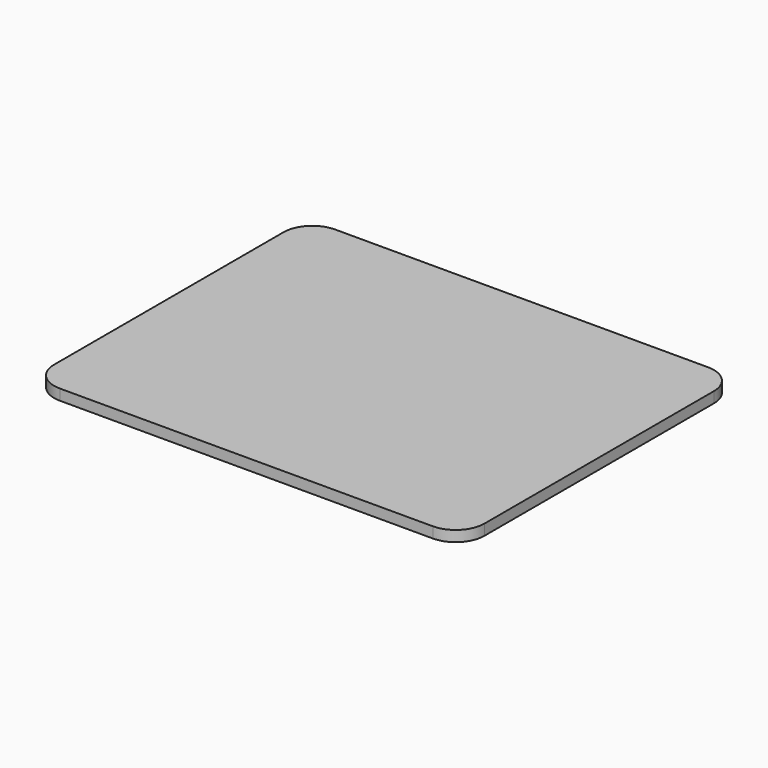
from build123d import *

# Parameters (mm, degrees)
F1_DEPTH = 19.05
F3_D     = 8.001
F3_DEPTH = 14.224
F3_TIP   = 2.4037429064


with BuildPart() as f1:
    # F0 (on Top) → F1 (new body)
    with BuildSketch(Plane.XY):
        with BuildLine():
            Line((330.2, 304.8), (-330.2, 304.8))
            ThreePointArc((-330.2, 304.8), (-366.1210244843, 289.9210244843), (-381, 254))
            Line((-381, 254), (-381, -254))
            ThreePointArc((-381, -254), (-366.1210244843, -289.9210244843), (-330.2, -304.8))
            Line((-330.2, -304.8), (330.2, -304.8))
            ThreePointArc((330.2, -304.8), (366.1210244843, -289.9210244843), (381, -254))
            Line((381, -254), (381, 254))
            ThreePointArc((381, 254), (366.1210244843, 289.9210244843), (330.2, 304.8))
        make_face()
    extrude(amount=F1_DEPTH)

    # F3
    with Locations(Plane(origin=(0, 0, 0), x_dir=(1, 0, 0), z_dir=(0, 0, -1))):
        with Locations((-152.4, 171.45), (152.4, 171.45), (152.4, -184.15), (-152.4, -184.15)):
            Hole(F3_D / 2, depth=F3_DEPTH)
            with Locations((0, 0, -(F3_DEPTH + F3_TIP / 2))):  # 118° drill point
                Cone(0, F3_D / 2, F3_TIP, mode=Mode.SUBTRACT)


solid = f1.part
